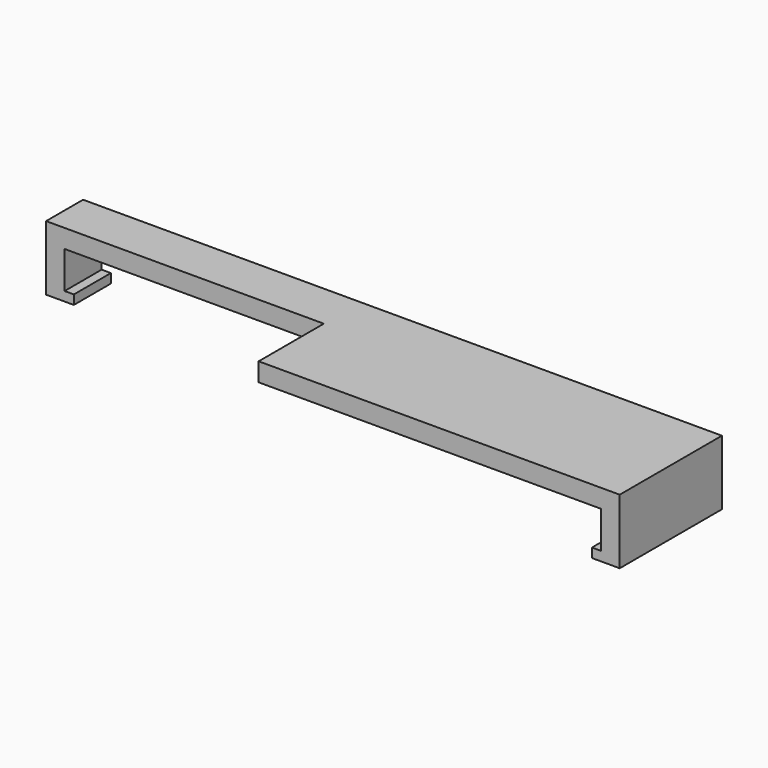
from build123d import *

# Parameters (mm, degrees)
F0_W      = 69
F0_H      = 33.816832
F1_DEPTH  = 2
F2_W      = 30
F2_H      = 8.8
F3_DEPTH  = 25
F4_W      = 69
F4_H      = 20.016832
F5_DEPTH  = 25
F6_W      = 3
F6_H      = 5
F6_H_2    = 13.8
F7_DEPTH  = 5
F8_W      = 1
F8_H      = 4
F9_DEPTH  = 25
F10_W     = 1
F10_H     = 4
F11_DEPTH = 25


with BuildPart() as f1:
    # F0 (on Top) → F1 (new body)
    with BuildSketch(Plane.XY):
        with Locations((2.211537, -0.192308)):
            Rectangle(F0_W, F0_H)
    extrude(amount=F1_DEPTH)

    # F2 (on face) → F3 (cut)
    with BuildSketch(Plane(origin=(0, 0, 0), x_dir=(1, 0, 0), z_dir=(0, 0, -1))):
        with Locations((-17.288463, 12.700724)):
            Rectangle(F2_W, F2_H)
    extrude(amount=-F3_DEPTH, mode=Mode.SUBTRACT)

    # F4 (on face) → F5 (cut)
    with BuildSketch(Plane.XY.offset(2)):
        with Locations((2.211537, 6.707692)):
            Rectangle(F4_W, F4_H)
    extrude(amount=-F5_DEPTH, mode=Mode.SUBTRACT)

    # F6 (on face) → F7 (join)
    with BuildSketch(Plane(origin=(0, 0, 0), x_dir=(1, 0, 0), z_dir=(0, 0, -1))):
        with Locations((-30.788463, 5.800724)):
            Rectangle(F6_W, F6_H)
        with Locations((35.211537, 10.200724)):
            Rectangle(F6_W, F6_H_2)
    extrude(amount=F7_DEPTH)

    # F8 (on face) → F9 (cut)
    with BuildSketch(Plane.XZ.offset(17.100724)):
        with Locations((34.211537, -2)):
            Rectangle(F8_W, F8_H)
    extrude(amount=-F9_DEPTH, mode=Mode.SUBTRACT)

    # F10 (on face) → F11 (cut)
    with BuildSketch(Plane.XZ.offset(8.300724)):
        with Locations((-29.788463, -2)):
            Rectangle(F10_W, F10_H)
    extrude(amount=-F11_DEPTH, mode=Mode.SUBTRACT)


solid = f1.part
